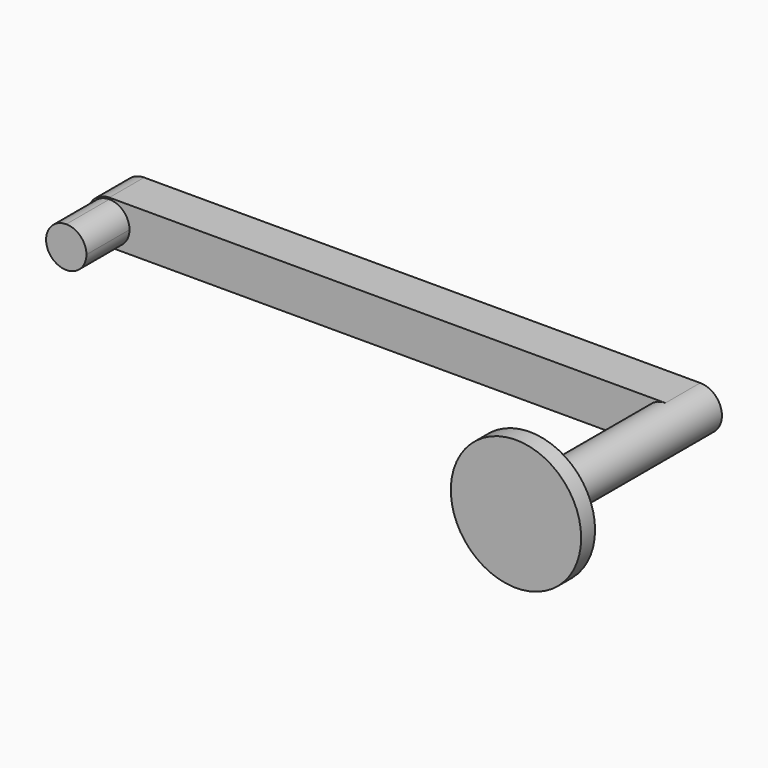
from build123d import *

# Parameters (mm, degrees)
F1_DEPTH = 11.049
F2_DEPTH = 27.94
F3_DEPTH = 3.175
F4_R     = 9.525
F5_DEPTH = 2.54


with BuildPart() as f1:
    # F0 (on Front) → F1 (new body)
    with BuildSketch(Plane.XZ):
        with BuildLine():
            ThreePointArc((-32.0532864205, 3.175), (-32.9162675396, 5.2584207218), (-34.9996882613, 6.1214018409))
            Line((-34.9996882613, 6.1214018409), (-34.9996882613, 0.2285981591))
            ThreePointArc((-34.9996882613, 0.2285981591), (-32.9162675396, 1.0915792782), (-32.0532864205, 3.175))
        make_face()
        with BuildLine():
            Line((-34.9996882613, 0.2285981591), (-34.9996882613, 6.1214018409))
            ThreePointArc((-34.9996882613, 6.1214018409), (-37.9460901022, 3.175), (-34.9996882613, 0.2285981591))
        make_face()
    extrude(amount=F1_DEPTH)



with BuildPart() as f2:
    # F0 (on Front) → F2 (new body)
    with BuildSketch(Plane.XZ):
        with BuildLine():
            Line((46.2803117387, 0), (46.2803117387, 6.35))
            ThreePointArc((46.2803117387, 6.35), (43.1053117387, 3.175), (46.2803117387, 0))
        make_face()
        with BuildLine():
            ThreePointArc((49.4553117387, 3.175), (48.5253757689, 5.4200640303), (46.2803117387, 6.35))
            Line((46.2803117387, 6.35), (46.2803117387, 0))
            ThreePointArc((46.2803117387, 0), (48.5253757689, 0.9299359697), (49.4553117387, 3.175))
        make_face()
    extrude(amount=F2_DEPTH)


with BuildPart() as f1_1:
    add(f1.part)

    add(f2.part)  # F3 merges F2
    # F0 (on Front) → F3 (join, symmetric)
    with BuildSketch(Plane.XZ):
        with BuildLine():
            Line((46.2803117387, 6.35), (-34.9996882613, 6.35))
            ThreePointArc((-34.9996882613, 6.35), (-32.7546242311, 5.4200640303), (-31.8246882613, 3.175))
            ThreePointArc((-31.8246882613, 3.175), (-32.7546242311, 0.9299359697), (-34.9996882613, 0))
            Line((-34.9996882613, 0), (46.2803117387, 0))
            ThreePointArc((46.2803117387, 0), (43.1053117387, 3.175), (46.2803117387, 6.35))
        make_face()
        with BuildLine():
            Line((-34.9996882613, 6.1214018409), (-34.9996882613, 6.35))
            ThreePointArc((-34.9996882613, 6.35), (-38.1746882613, 3.175), (-34.9996882613, 0))
            Line((-34.9996882613, 0), (-34.9996882613, 0.2285981591))
            ThreePointArc((-34.9996882613, 0.2285981591), (-37.9460901022, 3.175), (-34.9996882613, 6.1214018409))
        make_face()
        with BuildLine():
            ThreePointArc((-31.8246882613, 3.175), (-32.7546242311, 5.4200640303), (-34.9996882613, 6.35))
            Line((-34.9996882613, 6.35), (-34.9996882613, 6.1214018409))
            ThreePointArc((-34.9996882613, 6.1214018409), (-32.9162675396, 5.2584207218), (-32.0532864205, 3.175))
            ThreePointArc((-32.0532864205, 3.175), (-32.9162675396, 1.0915792782), (-34.9996882613, 0.2285981591))
            Line((-34.9996882613, 0.2285981591), (-34.9996882613, 0))
            ThreePointArc((-34.9996882613, 0), (-32.7546242311, 0.9299359697), (-31.8246882613, 3.175))
        make_face()
        with BuildLine():
            ThreePointArc((49.4553117387, 3.175), (48.5253757689, 5.4200640303), (46.2803117387, 6.35))
            Line((46.2803117387, 6.35), (46.2803117387, 0))
            ThreePointArc((46.2803117387, 0), (48.5253757689, 0.9299359697), (49.4553117387, 3.175))
        make_face()
        with BuildLine():
            Line((46.2803117387, 0), (46.2803117387, 6.35))
            ThreePointArc((46.2803117387, 6.35), (43.1053117387, 3.175), (46.2803117387, 0))
        make_face()
        with BuildLine():
            Line((-34.9996882613, 0.2285981591), (-34.9996882613, 6.1214018409))
            ThreePointArc((-34.9996882613, 6.1214018409), (-37.9460901022, 3.175), (-34.9996882613, 0.2285981591))
        make_face()
        with BuildLine():
            ThreePointArc((-32.0532864205, 3.175), (-32.9162675396, 5.2584207218), (-34.9996882613, 6.1214018409))
            Line((-34.9996882613, 6.1214018409), (-34.9996882613, 0.2285981591))
            ThreePointArc((-34.9996882613, 0.2285981591), (-32.9162675396, 1.0915792782), (-32.0532864205, 3.175))
        make_face()
    extrude(amount=F3_DEPTH, both=True)

    # F4 (on face) → F5 (join)
    with BuildSketch(Plane.XZ.offset(27.94)):
        with Locations((46.2803117387, 3.175)):
            Circle(F4_R)
        with BuildLine():
            ThreePointArc((46.2803117387, 6.35), (48.5253757689, 5.4200640303), (49.4553117387, 3.175))
            ThreePointArc((49.4553117387, 3.175), (44.0352477084, 0.9299359697), (46.2803117387, 6.35))
        make_face(mode=Mode.SUBTRACT)
        with BuildLine():
            ThreePointArc((46.2803117387, 6.35), (44.0352477084, 0.9299359697), (49.4553117387, 3.175))
            ThreePointArc((49.4553117387, 3.175), (48.5253757689, 5.4200640303), (46.2803117387, 6.35))
        make_face()
    extrude(amount=F5_DEPTH)


solid = f1_1.part
